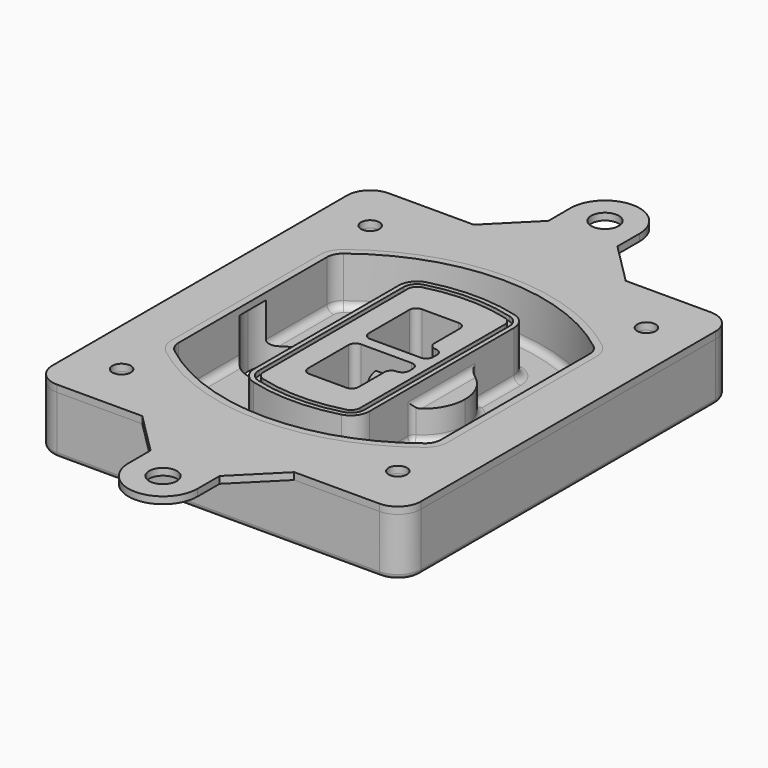
from build123d import *

# Parameters (mm, degrees)
F0_R      = 4
F1_DEPTH  = 25
F2_DEPTH  = 3
F3_DEPTH  = 18
F5_DEPTH  = 21
F6_DEPTH  = 2
F8_DEPTH  = 20
F9_DEPTH  = 16
F10_DEPTH = 25
F7_R      = 6
F7_R_2    = 4
F11_DEPTH = 6
F13_DEPTH = 9
F14_R     = 3
F15_R     = 2
F16_R     = 4
F16_R_2   = 6
F17_DEPTH = 3


with BuildPart() as f1:
    # F0 (on Top) → F1 (new body)
    with BuildSketch(Plane.XY):
        with BuildLine():
            ThreePointArc((14.05, 38.3825811321), (16.9789321881, 31.3115133202), (24.05, 28.3825811321))
            Line((24.05, 28.3825811321), (164.05, 28.3825811321))
            ThreePointArc((164.05, 28.3825811321), (171.1210678119, 31.3115133202), (174.05, 38.3825811321))
            Line((174.05, 38.3825811321), (174.05, 198.3825811321))
            ThreePointArc((174.05, 198.3825811321), (171.1210678119, 205.4536489439), (164.05, 208.3825811321))
            Line((164.05, 208.3825811321), (24.05, 208.3825811321))
            ThreePointArc((24.05, 208.3825811321), (16.9789321881, 205.4536489439), (14.05, 198.3825811321))
            Line((14.05, 198.3825811321), (14.05, 38.3825811321))
        make_face()
        with Locations((34.05, 50.8825811321)):
            Circle(F0_R, mode=Mode.SUBTRACT)
        with Locations((154.05, 50.8825811321)):
            Circle(F0_R, mode=Mode.SUBTRACT)
        with Locations((34.05, 185.8825811321)):
            Circle(F0_R, mode=Mode.SUBTRACT)
        with BuildLine():
            ThreePointArc((30.05, 158.6760234193), (31.4679615202, 164.8154295545), (35.4346153846, 169.7112011673))
            ThreePointArc((35.4346153846, 169.7112011673), (94.05, 189.8825811321), (152.6653846154, 169.7112011673))
            ThreePointArc((152.6653846154, 169.7112011673), (156.6320384798, 164.8154295545), (158.05, 158.6760234193))
            Line((158.05, 158.6760234193), (158.05, 78.0891388448))
            ThreePointArc((158.05, 78.0891388448), (156.6320384798, 71.9497327097), (152.6653846154, 67.0539610969))
            ThreePointArc((152.6653846154, 67.0539610969), (94.05, 46.8825811321), (35.4346153846, 67.0539610969))
            ThreePointArc((35.4346153846, 67.0539610969), (31.4679615202, 71.9497327097), (30.05, 78.0891388448))
            Line((30.05, 78.0891388448), (30.05, 158.6760234193))
        make_face(mode=Mode.SUBTRACT)
        with Locations((154.05, 185.8825811321)):
            Circle(F0_R, mode=Mode.SUBTRACT)
        with BuildLine():
            ThreePointArc((152.6653846154, 169.7112011673), (94.05, 189.8825811321), (35.4346153846, 169.7112011673))
            ThreePointArc((35.4346153846, 169.7112011673), (31.4679615202, 164.8154295545), (30.05, 158.6760234193))
            Line((30.05, 158.6760234193), (30.05, 78.0891388448))
            ThreePointArc((30.05, 78.0891388448), (31.4679615202, 71.9497327097), (35.4346153846, 67.0539610969))
            ThreePointArc((35.4346153846, 67.0539610969), (94.05, 46.8825811321), (152.6653846154, 67.0539610969))
            ThreePointArc((152.6653846154, 67.0539610969), (156.6320384798, 71.9497327097), (158.05, 78.0891388448))
            Line((158.05, 78.0891388448), (158.05, 158.6760234193))
            ThreePointArc((158.05, 158.6760234193), (156.6320384798, 164.8154295545), (152.6653846154, 169.7112011673))
        make_face()
        with BuildLine():
            Line((34.05, 78.0891388448), (34.05, 158.6760234193))
            ThreePointArc((34.05, 158.6760234193), (35.0628296573, 163.0613135158), (37.8961538462, 166.5582932393))
            ThreePointArc((37.8961538462, 166.5582932393), (94.05, 185.8825811321), (150.2038461538, 166.5582932393))
            ThreePointArc((150.2038461538, 166.5582932393), (153.0371703427, 163.0613135158), (154.05, 158.6760234193))
            Line((154.05, 158.6760234193), (154.05, 78.0891388448))
            ThreePointArc((154.05, 78.0891388448), (153.0371703427, 73.7038487483), (150.2038461538, 70.2068690248))
            ThreePointArc((150.2038461538, 70.2068690248), (94.05, 50.8825811321), (37.8961538462, 70.2068690248))
            ThreePointArc((37.8961538462, 70.2068690248), (35.0628296573, 73.7038487483), (34.05, 78.0891388448))
        make_face(mode=Mode.SUBTRACT)
        with BuildLine():
            ThreePointArc((37.8961538462, 166.5582932393), (35.0628296573, 163.0613135158), (34.05, 158.6760234193))
            Line((34.05, 158.6760234193), (34.05, 78.0891388448))
            ThreePointArc((34.05, 78.0891388448), (35.0628296573, 73.7038487483), (37.8961538462, 70.2068690248))
            ThreePointArc((37.8961538462, 70.2068690248), (94.05, 50.8825811321), (150.2038461538, 70.2068690248))
            ThreePointArc((150.2038461538, 70.2068690248), (153.0371703427, 73.7038487483), (154.05, 78.0891388448))
            Line((154.05, 78.0891388448), (154.05, 158.6760234193))
            ThreePointArc((154.05, 158.6760234193), (153.0371703427, 163.0613135158), (150.2038461538, 166.5582932393))
            ThreePointArc((150.2038461538, 166.5582932393), (94.05, 185.8825811321), (37.8961538462, 166.5582932393))
        make_face()
        with BuildLine():
            ThreePointArc((148.3576923077, 164.1936122933), (150.3410192399, 161.7457264869), (151.05, 158.6760234193))
            Line((151.05, 158.6760234193), (151.05, 78.0891388448))
            ThreePointArc((151.05, 78.0891388448), (150.3410192399, 75.0194357772), (148.3576923077, 72.5715499708))
            ThreePointArc((148.3576923077, 72.5715499708), (94.05, 53.8825811321), (39.7423076923, 72.5715499708))
            ThreePointArc((39.7423076923, 72.5715499708), (37.7589807601, 75.0194357772), (37.05, 78.0891388448))
            Line((37.05, 78.0891388448), (37.05, 158.6760234193))
            ThreePointArc((37.05, 158.6760234193), (37.7589807601, 161.7457264869), (39.7423076923, 164.1936122933))
            ThreePointArc((39.7423076923, 164.1936122933), (94.05, 182.8825811321), (148.3576923077, 164.1936122933))
        make_face(mode=Mode.SUBTRACT)
        with BuildLine():
            Line((151.05, 78.0891388448), (151.05, 158.6760234193))
            ThreePointArc((151.05, 158.6760234193), (150.3410192399, 161.7457264869), (148.3576923077, 164.1936122933))
            ThreePointArc((148.3576923077, 164.1936122933), (94.05, 182.8825811321), (39.7423076923, 164.1936122933))
            ThreePointArc((39.7423076923, 164.1936122933), (37.7589807601, 161.7457264869), (37.05, 158.6760234193))
            Line((37.05, 158.6760234193), (37.05, 78.0891388448))
            ThreePointArc((37.05, 78.0891388448), (37.7589807601, 75.0194357772), (39.7423076923, 72.5715499708))
            ThreePointArc((39.7423076923, 72.5715499708), (94.05, 53.8825811321), (148.3576923077, 72.5715499708))
            ThreePointArc((148.3576923077, 72.5715499708), (150.3410192399, 75.0194357772), (151.05, 78.0891388448))
        make_face()
    extrude(amount=-F1_DEPTH)

    # F0 (on Top) → F2 (join)
    with BuildSketch(Plane.XY):
        with BuildLine():
            ThreePointArc((37.8961538462, 166.5582932393), (35.0628296573, 163.0613135158), (34.05, 158.6760234193))
            Line((34.05, 158.6760234193), (34.05, 78.0891388448))
            ThreePointArc((34.05, 78.0891388448), (35.0628296573, 73.7038487483), (37.8961538462, 70.2068690248))
            ThreePointArc((37.8961538462, 70.2068690248), (94.05, 50.8825811321), (150.2038461538, 70.2068690248))
            ThreePointArc((150.2038461538, 70.2068690248), (153.0371703427, 73.7038487483), (154.05, 78.0891388448))
            Line((154.05, 78.0891388448), (154.05, 158.6760234193))
            ThreePointArc((154.05, 158.6760234193), (153.0371703427, 163.0613135158), (150.2038461538, 166.5582932393))
            ThreePointArc((150.2038461538, 166.5582932393), (94.05, 185.8825811321), (37.8961538462, 166.5582932393))
        make_face()
        with BuildLine():
            ThreePointArc((148.3576923077, 164.1936122933), (150.3410192399, 161.7457264869), (151.05, 158.6760234193))
            Line((151.05, 158.6760234193), (151.05, 78.0891388448))
            ThreePointArc((151.05, 78.0891388448), (150.3410192399, 75.0194357772), (148.3576923077, 72.5715499708))
            ThreePointArc((148.3576923077, 72.5715499708), (94.05, 53.8825811321), (39.7423076923, 72.5715499708))
            ThreePointArc((39.7423076923, 72.5715499708), (37.7589807601, 75.0194357772), (37.05, 78.0891388448))
            Line((37.05, 78.0891388448), (37.05, 158.6760234193))
            ThreePointArc((37.05, 158.6760234193), (37.7589807601, 161.7457264869), (39.7423076923, 164.1936122933))
            ThreePointArc((39.7423076923, 164.1936122933), (94.05, 182.8825811321), (148.3576923077, 164.1936122933))
        make_face(mode=Mode.SUBTRACT)
    extrude(amount=F2_DEPTH)

    # F0 (on Top) → F3 (cut)
    with BuildSketch(Plane.XY):
        with BuildLine():
            Line((151.05, 78.0891388448), (151.05, 158.6760234193))
            ThreePointArc((151.05, 158.6760234193), (150.3410192399, 161.7457264869), (148.3576923077, 164.1936122933))
            ThreePointArc((148.3576923077, 164.1936122933), (94.05, 182.8825811321), (39.7423076923, 164.1936122933))
            ThreePointArc((39.7423076923, 164.1936122933), (37.7589807601, 161.7457264869), (37.05, 158.6760234193))
            Line((37.05, 158.6760234193), (37.05, 78.0891388448))
            ThreePointArc((37.05, 78.0891388448), (37.7589807601, 75.0194357772), (39.7423076923, 72.5715499708))
            ThreePointArc((39.7423076923, 72.5715499708), (94.05, 53.8825811321), (148.3576923077, 72.5715499708))
            ThreePointArc((148.3576923077, 72.5715499708), (150.3410192399, 75.0194357772), (151.05, 78.0891388448))
        make_face()
    extrude(amount=-F3_DEPTH, mode=Mode.SUBTRACT)

    # F4 (on face) → F5 (join, through all)
    with BuildSketch(Plane.XY.offset(3)):
        with BuildLine():
            ThreePointArc((69.05, 79.13605345), (70.6988454002, 74.2716074128), (74.9657088123, 71.4123412437))
            ThreePointArc((74.9657088123, 71.4123412437), (94.05, 68.8825811321), (113.1342911877, 71.4123412437))
            ThreePointArc((113.1342911877, 71.4123412437), (117.4011545998, 74.2716074128), (119.05, 79.13605345))
            Line((119.05, 79.13605345), (119.05, 157.6291088141))
            ThreePointArc((119.05, 157.6291088141), (117.4011545998, 162.4935548514), (113.1342911877, 165.3528210204))
            ThreePointArc((113.1342911877, 165.3528210204), (94.05, 167.8825811321), (74.9657088123, 165.3528210204))
            ThreePointArc((74.9657088123, 165.3528210204), (70.6988454002, 162.4935548514), (69.05, 157.6291088141))
            Line((69.05, 157.6291088141), (69.05, 79.13605345))
        make_face()
        with BuildLine():
            ThreePointArc((112.6132183908, 163.4218929688), (115.8133659499, 161.2774433421), (117.05, 157.6291088141))
            Line((117.05, 157.6291088141), (117.05, 79.13605345))
            ThreePointArc((117.05, 79.13605345), (115.8133659499, 75.4877189221), (112.6132183908, 73.3432692953))
            ThreePointArc((112.6132183908, 73.3432692953), (94.05, 70.8825811321), (75.4867816092, 73.3432692953))
            ThreePointArc((75.4867816092, 73.3432692953), (72.2866340501, 75.4877189221), (71.05, 79.13605345))
            Line((71.05, 79.13605345), (71.05, 157.6291088141))
            ThreePointArc((71.05, 157.6291088141), (72.2866340501, 161.2774433421), (75.4867816092, 163.4218929688))
            ThreePointArc((75.4867816092, 163.4218929688), (94.05, 165.8825811321), (112.6132183908, 163.4218929688))
        make_face(mode=Mode.SUBTRACT)
        with BuildLine():
            Line((117.05, 79.13605345), (117.05, 157.6291088141))
            ThreePointArc((117.05, 157.6291088141), (115.8133659499, 161.2774433421), (112.6132183908, 163.4218929688))
            ThreePointArc((112.6132183908, 163.4218929688), (94.05, 165.8825811321), (75.4867816092, 163.4218929688))
            ThreePointArc((75.4867816092, 163.4218929688), (72.2866340501, 161.2774433421), (71.05, 157.6291088141))
            Line((71.05, 157.6291088141), (71.05, 79.13605345))
            ThreePointArc((71.05, 79.13605345), (72.2866340501, 75.4877189221), (75.4867816092, 73.3432692953))
            ThreePointArc((75.4867816092, 73.3432692953), (94.05, 70.8825811321), (112.6132183908, 73.3432692953))
            ThreePointArc((112.6132183908, 73.3432692953), (115.8133659499, 75.4877189221), (117.05, 79.13605345))
        make_face()
        with BuildLine():
            ThreePointArc((112.0921455939, 161.4909649173), (114.2255772999, 160.0613318328), (115.05, 157.6291088141))
            Line((115.05, 157.6291088141), (115.05, 79.13605345))
            ThreePointArc((115.05, 79.13605345), (114.2255772999, 76.7038304314), (112.0921455939, 75.2741973469))
            ThreePointArc((112.0921455939, 75.2741973469), (94.05, 72.8825811321), (76.0078544061, 75.2741973469))
            ThreePointArc((76.0078544061, 75.2741973469), (73.8744227001, 76.7038304314), (73.05, 79.13605345))
            Line((73.05, 79.13605345), (73.05, 157.6291088141))
            ThreePointArc((73.05, 157.6291088141), (73.8744227001, 160.0613318328), (76.0078544061, 161.4909649173))
            ThreePointArc((76.0078544061, 161.4909649173), (94.05, 163.8825811321), (112.0921455939, 161.4909649173))
        make_face(mode=Mode.SUBTRACT)
        with BuildLine():
            Line((115.05, 79.13605345), (115.05, 157.6291088141))
            ThreePointArc((115.05, 157.6291088141), (114.2255772999, 160.0613318328), (112.0921455939, 161.4909649173))
            ThreePointArc((112.0921455939, 161.4909649173), (94.05, 163.8825811321), (76.0078544061, 161.4909649173))
            ThreePointArc((76.0078544061, 161.4909649173), (73.8744227001, 160.0613318328), (73.05, 157.6291088141))
            Line((73.05, 157.6291088141), (73.05, 79.13605345))
            ThreePointArc((73.05, 79.13605345), (73.8744227001, 76.7038304314), (76.0078544061, 75.2741973469))
            ThreePointArc((76.0078544061, 75.2741973469), (94.05, 72.8825811321), (112.0921455939, 75.2741973469))
            ThreePointArc((112.0921455939, 75.2741973469), (114.2255772999, 76.7038304314), (115.05, 79.13605345))
        make_face()
        with BuildLine():
            Line((86.05, 115.8825811321), (108.05, 115.8825811321))
            ThreePointArc((108.05, 115.8825811321), (110.1713203436, 115.0039014756), (111.05, 112.8825811321))
            Line((111.05, 112.8825811321), (111.05, 110.8825811321))
            ThreePointArc((111.05, 110.8825811321), (110.1713203436, 108.7612607885), (108.05, 107.8825811321))
            ThreePointArc((108.05, 107.8825811321), (105.9286796564, 107.0039014756), (105.05, 104.8825811321))
            Line((105.05, 104.8825811321), (105.05, 90.8825811321))
            ThreePointArc((105.05, 90.8825811321), (104.1713203436, 88.7612607885), (102.05, 87.8825811321))
            Line((102.05, 87.8825811321), (86.05, 87.8825811321))
            ThreePointArc((86.05, 87.8825811321), (83.9286796564, 88.7612607885), (83.05, 90.8825811321))
            Line((83.05, 90.8825811321), (83.05, 112.8825811321))
            ThreePointArc((83.05, 112.8825811321), (83.9286796564, 115.0039014756), (86.05, 115.8825811321))
        make_face(mode=Mode.SUBTRACT)
        with BuildLine():
            ThreePointArc((86.05, 120.8825811321), (83.9286796564, 121.7612607885), (83.05, 123.8825811321))
            Line((83.05, 123.8825811321), (83.05, 145.8825811321))
            ThreePointArc((83.05, 145.8825811321), (83.9286796564, 148.0039014756), (86.05, 148.8825811321))
            Line((86.05, 148.8825811321), (102.05, 148.8825811321))
            ThreePointArc((102.05, 148.8825811321), (104.1713203436, 148.0039014756), (105.05, 145.8825811321))
            Line((105.05, 145.8825811321), (105.05, 131.8825811321))
            ThreePointArc((105.05, 131.8825811321), (105.9286796564, 129.7612607885), (108.05, 128.8825811321))
            ThreePointArc((108.05, 128.8825811321), (110.1713203436, 128.0039014756), (111.05, 125.8825811321))
            Line((111.05, 125.8825811321), (111.05, 123.8825811321))
            ThreePointArc((111.05, 123.8825811321), (110.1713203436, 121.7612607885), (108.05, 120.8825811321))
            Line((108.05, 120.8825811321), (86.05, 120.8825811321))
        make_face(mode=Mode.SUBTRACT)
    extrude(amount=-F5_DEPTH)

    # F4 (on face) → F6 (cut)
    with BuildSketch(Plane.XY.offset(3)):
        with BuildLine():
            Line((117.05, 79.13605345), (117.05, 157.6291088141))
            ThreePointArc((117.05, 157.6291088141), (115.8133659499, 161.2774433421), (112.6132183908, 163.4218929688))
            ThreePointArc((112.6132183908, 163.4218929688), (94.05, 165.8825811321), (75.4867816092, 163.4218929688))
            ThreePointArc((75.4867816092, 163.4218929688), (72.2866340501, 161.2774433421), (71.05, 157.6291088141))
            Line((71.05, 157.6291088141), (71.05, 79.13605345))
            ThreePointArc((71.05, 79.13605345), (72.2866340501, 75.4877189221), (75.4867816092, 73.3432692953))
            ThreePointArc((75.4867816092, 73.3432692953), (94.05, 70.8825811321), (112.6132183908, 73.3432692953))
            ThreePointArc((112.6132183908, 73.3432692953), (115.8133659499, 75.4877189221), (117.05, 79.13605345))
        make_face()
        with BuildLine():
            ThreePointArc((112.0921455939, 161.4909649173), (114.2255772999, 160.0613318328), (115.05, 157.6291088141))
            Line((115.05, 157.6291088141), (115.05, 79.13605345))
            ThreePointArc((115.05, 79.13605345), (114.2255772999, 76.7038304314), (112.0921455939, 75.2741973469))
            ThreePointArc((112.0921455939, 75.2741973469), (94.05, 72.8825811321), (76.0078544061, 75.2741973469))
            ThreePointArc((76.0078544061, 75.2741973469), (73.8744227001, 76.7038304314), (73.05, 79.13605345))
            Line((73.05, 79.13605345), (73.05, 157.6291088141))
            ThreePointArc((73.05, 157.6291088141), (73.8744227001, 160.0613318328), (76.0078544061, 161.4909649173))
            ThreePointArc((76.0078544061, 161.4909649173), (94.05, 163.8825811321), (112.0921455939, 161.4909649173))
        make_face(mode=Mode.SUBTRACT)
    extrude(amount=-F6_DEPTH, mode=Mode.SUBTRACT)

    # F7 (on face) → F8 (join)
    with BuildSketch(Plane(origin=(0, 0, -25), x_dir=(1, 0, 0), z_dir=(0, 0, -1))):
        with BuildLine():
            ThreePointArc((97.33842436, -118.3825811321), (110.8067035675, -104.9143019245), (124.274982775, -118.3825811321))
            Line((124.274982775, -118.3825811321), (129.274982775, -118.3825811321))
            ThreePointArc((129.274982775, -118.3825811321), (110.8067035675, -99.9143019245), (92.33842436, -118.3825811321))
            Line((92.33842436, -118.3825811321), (97.33842436, -118.3825811321))
        make_face()
        with BuildLine():
            Line((97.33842436, -118.3825811321), (124.274982775, -118.3825811321))
            ThreePointArc((124.274982775, -118.3825811321), (110.8067035675, -104.9143019245), (97.33842436, -118.3825811321))
        make_face()
        with BuildLine():
            ThreePointArc((97.33842436, -118.3825811321), (110.8067035675, -131.8508603396), (124.274982775, -118.3825811321))
            Line((124.274982775, -118.3825811321), (97.33842436, -118.3825811321))
        make_face()
        with BuildLine():
            Line((129.274982775, -118.3825811321), (124.274982775, -118.3825811321))
            ThreePointArc((124.274982775, -118.3825811321), (110.8067035675, -131.8508603396), (97.33842436, -118.3825811321))
            Line((97.33842436, -118.3825811321), (92.33842436, -118.3825811321))
            ThreePointArc((92.33842436, -118.3825811321), (110.8067035675, -136.8508603396), (129.274982775, -118.3825811321))
        make_face()
    extrude(amount=-F8_DEPTH)

    # F7 (on face) → F9 (cut)
    with BuildSketch(Plane(origin=(0, 0, -25), x_dir=(1, 0, 0), z_dir=(0, 0, -1))):
        with BuildLine():
            Line((97.33842436, -118.3825811321), (124.274982775, -118.3825811321))
            ThreePointArc((124.274982775, -118.3825811321), (110.8067035675, -104.9143019245), (97.33842436, -118.3825811321))
        make_face()
        with BuildLine():
            ThreePointArc((97.33842436, -118.3825811321), (110.8067035675, -131.8508603396), (124.274982775, -118.3825811321))
            Line((124.274982775, -118.3825811321), (97.33842436, -118.3825811321))
        make_face()
    extrude(amount=-F9_DEPTH, mode=Mode.SUBTRACT)

    # F7 (on face) → F10 (cut)
    with BuildSketch(Plane(origin=(0, 0, -25), x_dir=(1, 0, 0), z_dir=(0, 0, -1))):
        with BuildLine():
            Line((35.0181770675, -118.3825811321), (61.9547354825, -118.3825811321))
            ThreePointArc((61.9547354825, -118.3825811321), (48.486456275, -104.9143019245), (35.0181770675, -118.3825811321))
        make_face()
        with BuildLine():
            ThreePointArc((35.0181770675, -118.3825811321), (48.486456275, -131.8508603396), (61.9547354825, -118.3825811321))
            Line((61.9547354825, -118.3825811321), (35.0181770675, -118.3825811321))
        make_face()
    extrude(amount=-F10_DEPTH, mode=Mode.SUBTRACT)

    # F7 (on face) → F11 (cut)
    with BuildSketch(Plane(origin=(0, 0, -25), x_dir=(1, 0, 0), z_dir=(0, 0, -1))):
        with Locations((154.05, -185.8825811321)):
            Circle(F7_R)
        with Locations((154.05, -185.8825811321)):
            Circle(F7_R_2, mode=Mode.SUBTRACT)
        with Locations((154.05, -185.8825811321)):
            Circle(F7_R)
        with Locations((154.05, -185.8825811321)):
            Circle(F7_R_2, mode=Mode.SUBTRACT)
        with Locations((34.05, -185.8825811321)):
            Circle(F7_R)
        with Locations((34.05, -185.8825811321)):
            Circle(F7_R_2, mode=Mode.SUBTRACT)
        with Locations((34.05, -185.8825811321)):
            Circle(F7_R)
        with Locations((34.05, -185.8825811321)):
            Circle(F7_R_2, mode=Mode.SUBTRACT)
        with Locations((34.05, -50.8825811321)):
            Circle(F7_R)
        with Locations((34.05, -50.8825811321)):
            Circle(F7_R_2, mode=Mode.SUBTRACT)
        with Locations((34.05, -50.8825811321)):
            Circle(F7_R)
        with Locations((34.05, -50.8825811321)):
            Circle(F7_R_2, mode=Mode.SUBTRACT)
        with Locations((154.05, -50.8825811321)):
            Circle(F7_R)
        with Locations((154.05, -50.8825811321)):
            Circle(F7_R_2, mode=Mode.SUBTRACT)
        with Locations((154.05, -50.8825811321)):
            Circle(F7_R)
        with Locations((154.05, -50.8825811321)):
            Circle(F7_R_2, mode=Mode.SUBTRACT)
    extrude(amount=-F11_DEPTH, mode=Mode.SUBTRACT)

    # F12 (on face) → F13 (cut, through all)
    with BuildSketch(Plane(origin=(0, 0, -9), x_dir=(1, 0, 0), z_dir=(0, 0, -1))):
        with BuildLine():
            Line((105.05, -104.8825811321), (105.05, -100.8344273567))
            ThreePointArc((105.05, -100.8344273567), (96.6196536419, -106.5586667507), (92.5084157545, -115.8825811321))
            Line((92.5084157545, -115.8825811321), (97.5724848595, -115.8825811321))
            ThreePointArc((97.5724848595, -115.8825811321), (100.2357188154, -110.0369939039), (105.3036447004, -106.0898642673))
            ThreePointArc((105.3036447004, -106.0898642673), (105.1140958889, -105.4994012441), (105.05, -104.8825811321))
        make_face()
        with BuildLine():
            ThreePointArc((105.3036447004, -130.6752979968), (100.2357188154, -126.7281683602), (97.5724848595, -120.8825811321))
            Line((97.5724848595, -120.8825811321), (92.5084157545, -120.8825811321))
            ThreePointArc((92.5084157545, -120.8825811321), (96.6196536419, -130.2064955134), (105.05, -135.9307349074))
            Line((105.05, -135.9307349074), (105.05, -131.8825811321))
            ThreePointArc((105.05, -131.8825811321), (105.1140958889, -131.26576102), (105.3036447004, -130.6752979968))
        make_face()
        with BuildLine():
            ThreePointArc((105.3036447004, -106.0898642673), (100.2357188154, -110.0369939039), (97.5724848595, -115.8825811321))
            Line((97.5724848595, -115.8825811321), (108.05, -115.8825811321))
            ThreePointArc((108.05, -115.8825811321), (110.1713203436, -115.0039014756), (111.05, -112.8825811321))
            Line((111.05, -112.8825811321), (111.05, -110.8825811321))
            ThreePointArc((111.05, -110.8825811321), (110.1713203436, -108.7612607885), (108.05, -107.8825811321))
            ThreePointArc((108.05, -107.8825811321), (106.4101599782, -107.3947365219), (105.3036447004, -106.0898642673))
        make_face()
        with BuildLine():
            Line((108.05, -120.8825811321), (97.5724848595, -120.8825811321))
            ThreePointArc((97.5724848595, -120.8825811321), (100.2357188154, -126.7281683602), (105.3036447004, -130.6752979968))
            ThreePointArc((105.3036447004, -130.6752979968), (106.4101599782, -129.3704257422), (108.05, -128.8825811321))
            ThreePointArc((108.05, -128.8825811321), (110.1713203436, -128.0039014756), (111.05, -125.8825811321))
            Line((111.05, -125.8825811321), (111.05, -123.8825811321))
            ThreePointArc((111.05, -123.8825811321), (110.1713203436, -121.7612607885), (108.05, -120.8825811321))
        make_face()
    extrude(amount=F13_DEPTH, mode=Mode.SUBTRACT)

    # F14
    f14_edges = [f1.edges().sort_by_distance(p)[0] for p in [
        (37.05, 94.679105, -18),
        (37.05, 142.086057, -18),
        (119.05, 118.382581, -5),
        (119.05, 134.909087, -11.5),
        (119.05, 101.856075, -11.5),
        (119.05, 90.496064, -18),
        (129.274983, 118.382581, -18),
    ]]
    fillet(f14_edges, radius=F14_R)

    # F15
    f15_edges = [f1.edges().sort_by_distance(p)[0] for p in [
        (94.05, 28.382581, -25),
    ]]
    fillet(f15_edges, radius=F15_R)


with BuildPart() as f17:
    # F16 (on face) → F17 (new body, through all)
    with BuildSketch(Plane.XY):
        with BuildLine():
            Line((127.05, 208.3825811321), (61.05, 208.3825811321))
            Line((61.05, 208.3825811321), (24.05, 208.3825811321))
            ThreePointArc((24.05, 208.3825811321), (16.9789321881, 205.4536489439), (14.05, 198.3825811321))
            Line((14.05, 198.3825811321), (14.05, 38.3825811321))
            ThreePointArc((14.05, 38.3825811321), (16.9789321881, 31.3115133202), (24.05, 28.3825811321))
            Line((24.05, 28.3825811321), (61.05, 28.3825811321))
            Line((61.05, 28.3825811321), (127.05, 28.3825811321))
            Line((127.05, 28.3825811321), (164.05, 28.3825811321))
            ThreePointArc((164.05, 28.3825811321), (171.1210678119, 31.3115133202), (174.05, 38.3825811321))
            Line((174.05, 38.3825811321), (174.05, 198.3825811321))
            ThreePointArc((174.05, 198.3825811321), (171.1210678119, 205.4536489439), (164.05, 208.3825811321))
            Line((164.05, 208.3825811321), (127.05, 208.3825811321))
        make_face()
        with Locations((34.05, 50.8825811321)):
            Circle(F16_R, mode=Mode.SUBTRACT)
        with Locations((154.05, 50.8825811321)):
            Circle(F16_R, mode=Mode.SUBTRACT)
        with Locations((34.05, 185.8825811321)):
            Circle(F16_R, mode=Mode.SUBTRACT)
        with BuildLine():
            ThreePointArc((34.05, 158.6760234193), (35.0628296573, 163.0613135158), (37.8961538462, 166.5582932393))
            ThreePointArc((37.8961538462, 166.5582932393), (94.05, 185.8825811321), (150.2038461538, 166.5582932393))
            ThreePointArc((150.2038461538, 166.5582932393), (153.0371703427, 163.0613135158), (154.05, 158.6760234193))
            Line((154.05, 158.6760234193), (154.05, 78.0891388448))
            ThreePointArc((154.05, 78.0891388448), (153.0371703427, 73.7038487483), (150.2038461538, 70.2068690248))
            ThreePointArc((150.2038461538, 70.2068690248), (94.05, 50.8825811321), (37.8961538462, 70.2068690248))
            ThreePointArc((37.8961538462, 70.2068690248), (35.0628296573, 73.7038487483), (34.05, 78.0891388448))
            Line((34.05, 78.0891388448), (34.05, 158.6760234193))
        make_face(mode=Mode.SUBTRACT)
        with Locations((154.05, 185.8825811321)):
            Circle(F16_R, mode=Mode.SUBTRACT)
        with BuildLine():
            Line((127.05, 28.3825811321), (61.05, 28.3825811321))
            Line((61.05, 28.3825811321), (79.05, 10.3825811321))
            Line((79.05, 10.3825811321), (79.05, -1.6174188679))
            ThreePointArc((79.05, -1.6174188679), (94.05, -16.6174188679), (109.05, -1.6174188679))
            Line((109.05, -1.6174188679), (109.05, 10.3825811321))
            Line((109.05, 10.3825811321), (127.05, 28.3825811321))
        make_face()
        with Locations((94.05, -1.6174188679)):
            Circle(F16_R_2, mode=Mode.SUBTRACT)
        with BuildLine():
            ThreePointArc((109.05, 238.3825811321), (94.05, 253.3825811321), (79.05, 238.3825811321))
            Line((79.05, 238.3825811321), (79.05, 226.3825811321))
            Line((79.05, 226.3825811321), (61.05, 208.3825811321))
            Line((61.05, 208.3825811321), (127.05, 208.3825811321))
            Line((127.05, 208.3825811321), (109.05, 226.3825811321))
            Line((109.05, 226.3825811321), (109.05, 238.3825811321))
        make_face()
        with Locations((94.05, 238.3825811321)):
            Circle(F16_R_2, mode=Mode.SUBTRACT)
    extrude(amount=F17_DEPTH)


solid = Compound([f1.part, f17.part])
